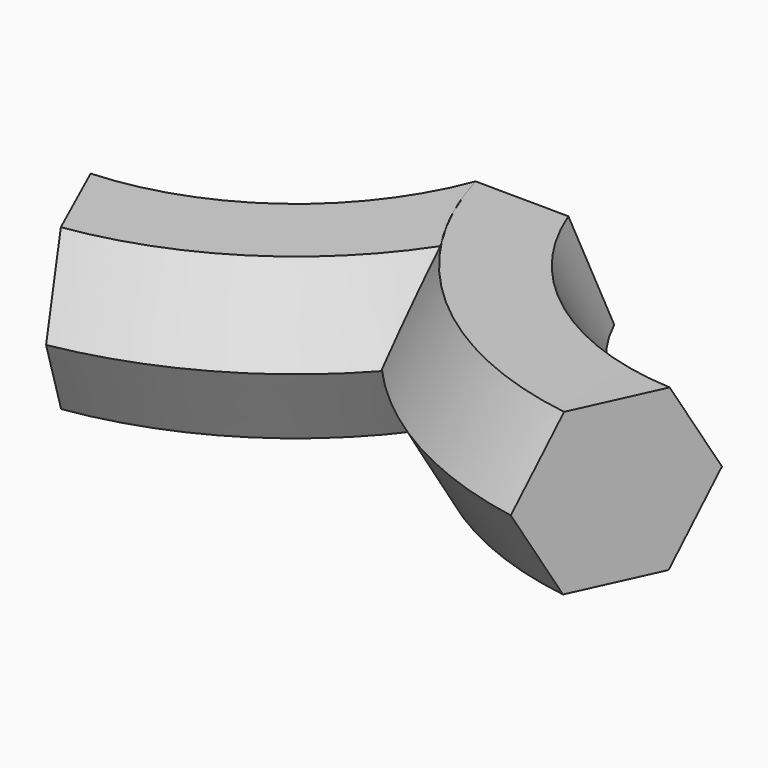
from build123d import *


with BuildPart() as f2:
    # F2: sweep along a path in F1
    with BuildLine(Plane.XY) as f2_path:
        ThreePointArc((88.857807219, -72.1131786704), (33.770108767, -49.1903487224), (0, 0))
    # F0 (on Front) → F2 (sweep)
    with BuildSketch(Plane.XZ):
        Polygon((-30.4794730405, 27.0658959038), (-15.3949537232, 0.5802832628), (15.0845193173, 0.401053875), (30.4794730405, 26.7074371281), (15.3949537232, 53.193049769), (-15.0845193173, 53.3722791569), align=None)
    sweep(path=f2_path.line)

    # F3: sweep along a path in F1
    with BuildLine(Plane.XY) as f3_path:
        ThreePointArc((-88.857807219, -72.1131786704), (-33.770108767, -49.1903487224), (0, 0))
    # F0 (on Front) → F3 (sweep)
    with BuildSketch(Plane.XZ):
        Polygon((-30.4794730405, 27.0658959038), (-15.3949537232, 0.5802832628), (15.0845193173, 0.401053875), (30.4794730405, 26.7074371281), (15.3949537232, 53.193049769), (-15.0845193173, 53.3722791569), align=None)
    sweep(path=f3_path.line)

    # F5: sweep along a path in F1
    with BuildLine(Plane.XY) as f5_path:
        ThreePointArc((-88.857807219, -72.1131786704), (-33.770108767, -49.1903487224), (0, 0))
    # F4 (on face) → F5 (sweep, cut)
    with BuildSketch(Plane.XZ):
        with BuildLine():
            Line((0, 38.8838126014), (0, 13.4838126014))
            ThreePointArc((0, 13.4838126014), (8.9802561211, 17.2035564803), (12.7, 26.1838126014))
            ThreePointArc((12.7, 26.1838126014), (8.9802561211, 35.1640687224), (0, 38.8838126014))
        make_face()
        with BuildLine():
            ThreePointArc((0, 38.8838126014), (-12.7, 26.1838126014), (0, 13.4838126014))
            Line((0, 13.4838126014), (0, 38.8838126014))
        make_face()
    sweep(path=f5_path.line, mode=Mode.SUBTRACT)


solid = f2.part
